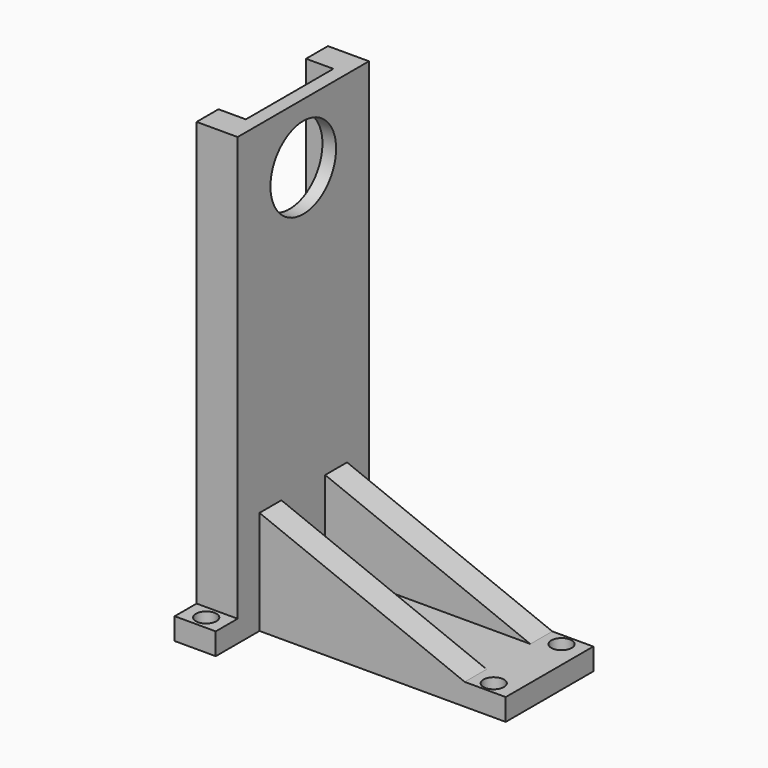
from build123d import *

# Parameters (mm, degrees)
PAD_DEPTH       = 20
PAD001_DEPTH    = 10
PAD002_DEPTH    = 15
SKETCH003_R     = 2.1
POCKET_DEPTH    = 8.001
SKETCH004_R     = 3.75
POCKET001_DEPTH = 4
SKETCH005_W     = 10
SKETCH005_H     = 55
POCKET002_DEPTH = 40
SKETCH006_R     = 15
POCKET003_DEPTH = 95.001


with BuildPart() as part:
    # Sketch → Pad (new body, symmetric)
    with BuildSketch(Plane.XZ):
        Polygon((0, 163), (0, 0), (105, 0), (105, 8), (15, 8), (15, 163), align=None)
    extrude(amount=PAD_DEPTH, both=True)

    # Sketch001 (on Face8 of Pad) → Pad001 (join)
    with BuildSketch(Plane.XZ.offset(20)):
        Polygon((15, 38), (90, 8), (15, 8), align=None)
    pad001 = extrude(amount=-PAD001_DEPTH)

    # Mirrored: Pad001 across XZ
    add(pad001.mirror(Plane.XZ))

    # Sketch002 (on Face1 of Mirrored) → Pad002 (join)
    with BuildSketch(Plane(origin=(0, 0, 0), x_dir=(0, -1, 0), z_dir=(-1, 0, 0))):
        Polygon((-40, 0), (-20, 0), (-20, 163), (-30, 163), (-30, 8), (-40, 8), align=None)
    pad002 = extrude(amount=-PAD002_DEPTH)

    # Mirrored001: Pad002 across Sketch002 V_Axis
    add(pad002.mirror(Plane(origin=(0, 0, 0), x_dir=(-1, 0, 0), z_dir=(0, -1, 0))))

    # Sketch003 (on Face11 of Mirrored001) → Pocket (cut, through all)
    with BuildSketch(Plane.XY.offset(8)):
        with Locations((7.5, 35)):
            Circle(SKETCH003_R)
        with Locations((7.5, -35)):
            Circle(SKETCH003_R)
        with Locations((97, 15.5)):
            Circle(SKETCH003_R)
        with Locations((97, -15.5)):
            Circle(SKETCH003_R)
    extrude(amount=-POCKET_DEPTH, mode=Mode.SUBTRACT)

    # Sketch004 (on Face15 of Pocket) → Pocket001 (cut)
    with BuildSketch(Plane.XY.offset(8)):
        with Locations((7.5, 35)):
            Circle(SKETCH004_R)
        with Locations((97, 15.5)):
            Circle(SKETCH004_R)
        with Locations((97, -15.5)):
            Circle(SKETCH004_R)
        with Locations((7.5, -35)):
            Circle(SKETCH004_R)
    extrude(amount=-POCKET001_DEPTH, mode=Mode.SUBTRACT)

    # Sketch005 (on Face12 of Pocket001) → Pocket002 (cut)
    with BuildSketch(Plane.XZ.offset(20)):
        with Locations((5, 135.5)):
            Rectangle(SKETCH005_W, SKETCH005_H)
    extrude(amount=-POCKET002_DEPTH, mode=Mode.SUBTRACT)

    # Sketch006 (on Face23 of Pocket002) → Pocket003 (cut, through all)
    with BuildSketch(Plane(origin=(10, 0, 0), x_dir=(0, -1, 0), z_dir=(-1, 0, 0))):
        with Locations((0, 141)):
            Circle(SKETCH006_R)
    extrude(amount=-POCKET003_DEPTH, mode=Mode.SUBTRACT)


solid = part.part
